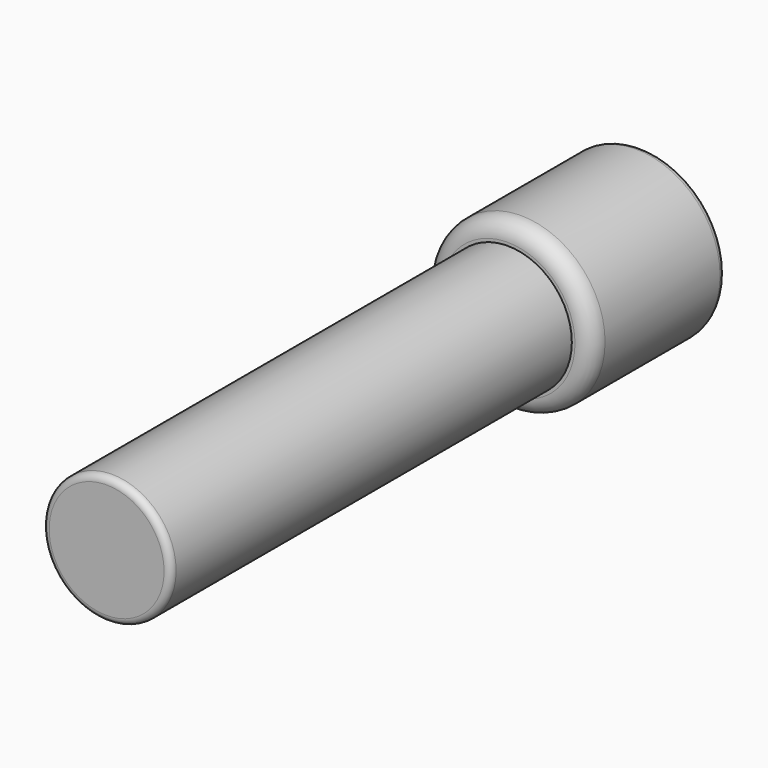
from build123d import *

# Parameters (mm, degrees)
F0_R     = 25.14462
F1_DEPTH = 50
F2_R     = 19.195006
F3_DEPTH = 150
F4_R     = 2
F5_R     = 5


with BuildPart() as f1:
    # F0 (on Front) → F1 (new body)
    with BuildSketch(Plane.XZ):
        Circle(F0_R)
    extrude(amount=F1_DEPTH)

    # F2 (on face) → F3 (join)
    with BuildSketch(Plane.XZ.offset(50)):
        Circle(F2_R)
    extrude(amount=F3_DEPTH)

    # F4
    f4_edges = [f1.edges().sort_by_distance(p)[0] for p in [
        (-19.195006, -200, 0),
        (-25.14462, 0, 0),
    ]]
    fillet(f4_edges, radius=F4_R)

    # F5
    f5_edges = [f1.edges().sort_by_distance(p)[0] for p in [
        (-25.14462, -50, 0),
    ]]
    fillet(f5_edges, radius=F5_R)


solid = f1.part
